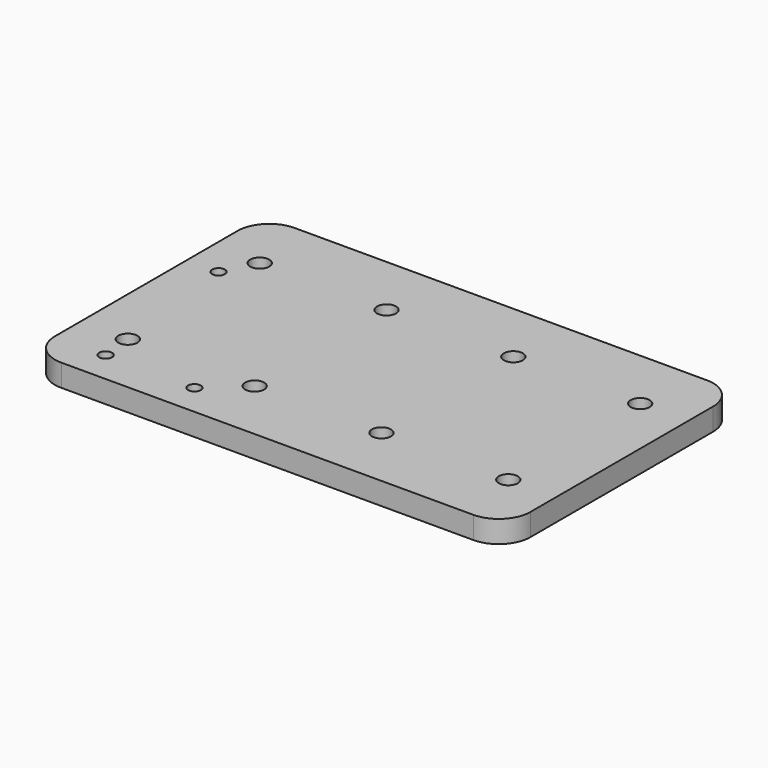
from build123d import *

# Parameters (mm, degrees)
F0_W     = 150
F0_H     = 92
F0_R     = 4
F0_R_2   = 3
F0_R_3   = 2
F1_DEPTH = 7
F2_R     = 10
F3_DEPTH = 4


with BuildPart() as f1:
    # F0 (on Top) → F1 (new body)
    with BuildSketch(Plane.XY):
        with Locations((75, 46)):
            Rectangle(F0_W, F0_H)
        with Locations((16, 10)):
            Circle(F0_R, mode=Mode.SUBTRACT)
        with Locations((15, 20)):
            Circle(F0_R_2, mode=Mode.SUBTRACT)
        with Locations((44, 10)):
            Circle(F0_R, mode=Mode.SUBTRACT)
        with Locations((55, 20)):
            Circle(F0_R_2, mode=Mode.SUBTRACT)
        with Locations((95, 20)):
            Circle(F0_R_2, mode=Mode.SUBTRACT)
        with Locations((135, 20)):
            Circle(F0_R_2, mode=Mode.SUBTRACT)
        with Locations((10, 62)):
            Circle(F0_R, mode=Mode.SUBTRACT)
        with Locations((15, 72)):
            Circle(F0_R_2, mode=Mode.SUBTRACT)
        with Locations((55, 72)):
            Circle(F0_R_2, mode=Mode.SUBTRACT)
        with Locations((95, 72)):
            Circle(F0_R_2, mode=Mode.SUBTRACT)
        with Locations((135, 72)):
            Circle(F0_R_2, mode=Mode.SUBTRACT)
        with Locations((10, 62)):
            Circle(F0_R)
        with Locations((10, 62)):
            Circle(F0_R_3, mode=Mode.SUBTRACT)
        with Locations((16, 10)):
            Circle(F0_R)
        with Locations((16, 10)):
            Circle(F0_R_3, mode=Mode.SUBTRACT)
        with Locations((44, 10)):
            Circle(F0_R)
        with Locations((44, 10)):
            Circle(F0_R_3, mode=Mode.SUBTRACT)
    extrude(amount=F1_DEPTH)

    # F2
    f2_edges = [f1.edges().sort_by_distance(p)[0] for p in [
        (0, 92, 3.5),
        (0, 0, 3.5),
        (150, 0, 3.5),
        (150, 92, 3.5),
    ]]
    fillet(f2_edges, radius=F2_R)

    # F0 (on Top) → F3 (cut)
    with BuildSketch(Plane.XY):
        with Locations((10, 62)):
            Circle(F0_R)
        with Locations((10, 62)):
            Circle(F0_R_3, mode=Mode.SUBTRACT)
        with Locations((16, 10)):
            Circle(F0_R)
        with Locations((16, 10)):
            Circle(F0_R_3, mode=Mode.SUBTRACT)
        with Locations((44, 10)):
            Circle(F0_R)
        with Locations((44, 10)):
            Circle(F0_R_3, mode=Mode.SUBTRACT)
    extrude(amount=F3_DEPTH, mode=Mode.SUBTRACT)


solid = f1.part
